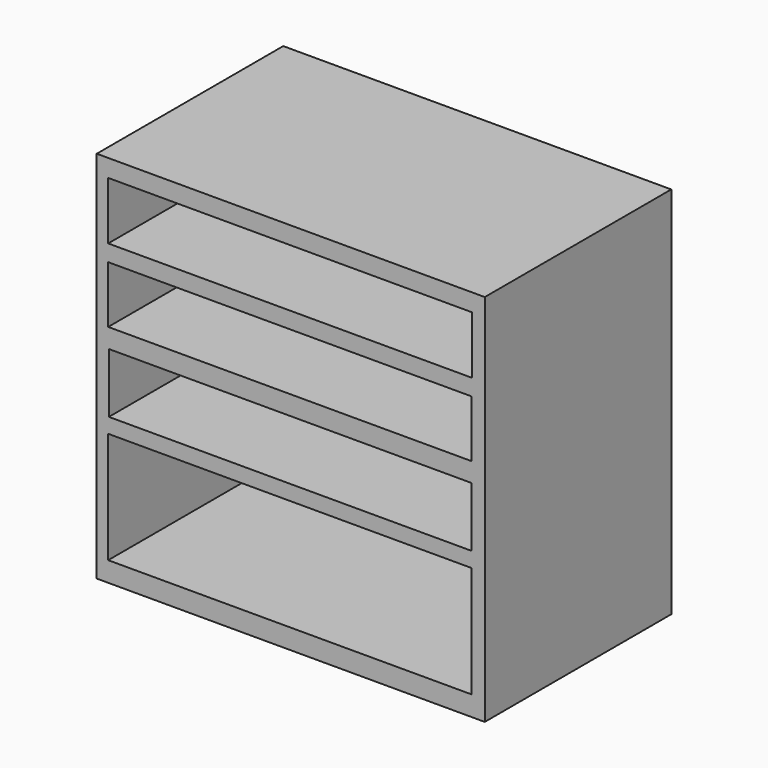
from build123d import *

# Parameters (mm, degrees)
F0_W     = 804
F0_H     = 775
F0_W_2   = 752.827108
F0_H_2   = 230.544425
F0_W_3   = 751.404017
F0_H_3   = 123.810884
F0_H_4   = 118.118427
F0_W_4   = 754.250229
F0_H_5   = 119.541556
F1_DEPTH = 483


with BuildPart() as f1:
    # F0 (on Front) → F1 (new body)
    with BuildSketch(Plane.XZ):
        Rectangle(F0_W, F0_H)
        with Locations((-1.859218, -230.949025)):
            Rectangle(F0_W_2, F0_H_2, mode=Mode.SUBTRACT)
        with Locations((-1.147672, -22.462869)):
            Rectangle(F0_W_3, F0_H_3, mode=Mode.SUBTRACT)
        with Locations((-1.859218, 138.34897)):
            Rectangle(F0_W_2, F0_H_4, mode=Mode.SUBTRACT)
        with Locations((-1.147658, 291.33369)):
            Rectangle(F0_W_4, F0_H_5, mode=Mode.SUBTRACT)
    extrude(amount=F1_DEPTH)


solid = f1.part
